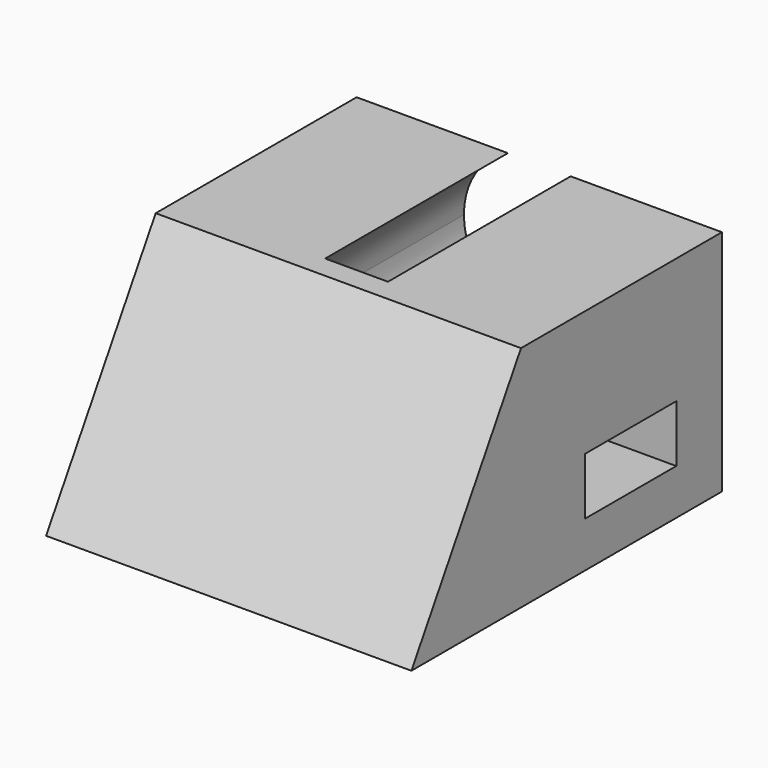
from build123d import *

# Parameters (mm, degrees)
F0_W     = 80
F0_H     = 50
F1_DEPTH = 85
F3_DEPTH = 30
F5_W     = 25
F5_H     = 12.5
F6_DEPTH = 30
F7_DEPTH = 80
F9_DEPTH = 50


with BuildPart() as f1:
    # F0 (on Front) → F1 (new body)
    with BuildSketch(Plane.XZ):
        with Locations((40, 25)):
            Rectangle(F0_W, F0_H)
    extrude(amount=-F1_DEPTH)

    # F2 (on Right) → F3 (cut)
    with BuildSketch(Plane.YZ):
        Polygon((47.5, 10), (55, 10), (72.5, 10), (72.5, 22.5), (47.5, 22.5), align=None)
    extrude(amount=F3_DEPTH, mode=Mode.SUBTRACT)

    # F5 (on offset) → F6 (cut)
    with BuildSketch(Plane.YZ.offset(80)):
        with Locations((60, 16.25)):
            Rectangle(F5_W, F5_H)
    extrude(amount=-F6_DEPTH, mode=Mode.SUBTRACT)

    # F2 (on Right) → F7 (cut)
    with BuildSketch(Plane.YZ):
        Polygon((0, 30), (0, 0), (30, 50), (0, 50), align=None)
    extrude(amount=F7_DEPTH, mode=Mode.SUBTRACT)

    # F8 (on face) → F9 (cut)
    with BuildSketch(Plane(origin=(0, 85, 0), x_dir=(-1, 0, 0), z_dir=(0, 1, 0))):
        with BuildLine():
            ThreePointArc((-46.8738635424, 50), (-56.1206389452, 31.4821881801), (-40, 18.5))
            ThreePointArc((-40, 18.5), (-28.3327381104, 23.3327381104), (-23.5, 35))
            ThreePointArc((-23.5, 35), (-26.1135182921, 43.9115445224), (-33.1261364576, 50))
            Line((-33.1261364576, 50), (-46.8738635424, 50))
        make_face()
    extrude(amount=-F9_DEPTH, mode=Mode.SUBTRACT)


solid = f1.part
